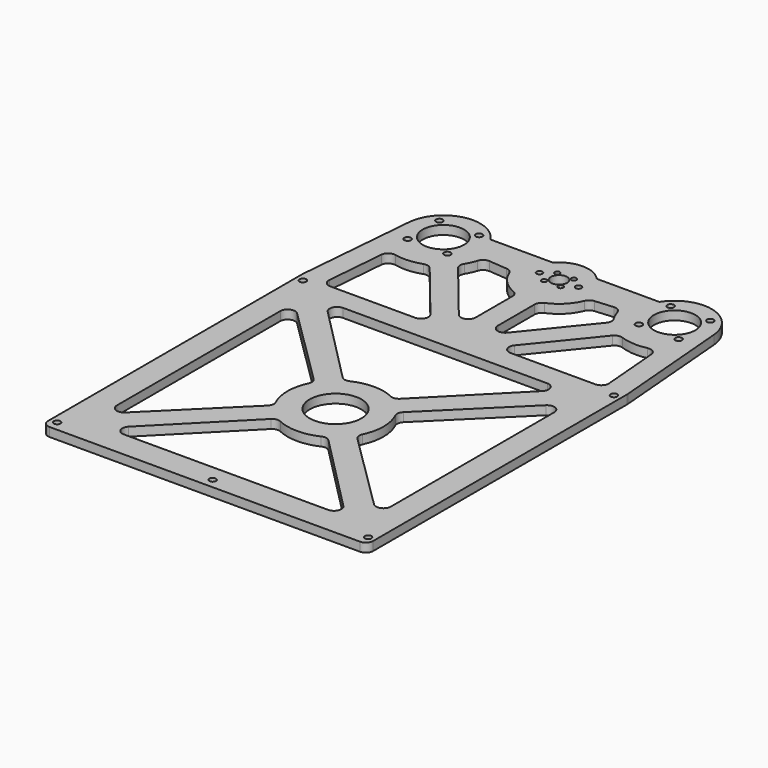
from build123d import *

# Parameters (mm, degrees)
F0_R     = 2.25
F0_R_2   = 17.5
F0_R_3   = 14
F0_R_4   = 1.75
F0_R_5   = 2
F0_R_6   = 5.475
F1_DEPTH = 6


with BuildPart() as f1:
    # F0 (on Top) → F1 (new body)
    with BuildSketch(Plane.XY):
        with BuildLine():
            ThreePointArc((-94.039087, -168.43725), (-92.574621, -171.972784), (-89.039087, -173.43725))
            Line((-89.039087, -173.43725), (120.995737, -173.43725))
            ThreePointArc((120.995737, -173.43725), (124.531271, -171.972784), (125.995737, -168.43725))
            Line((125.995737, -168.43725), (125.995737, 46.355272))
            ThreePointArc((125.995737, 46.355272), (125.98705, 46.77201), (125.961003, 47.188025))
            Line((125.961003, 47.188025), (119.17908, 128.344968))
            ThreePointArc((119.17908, 128.344968), (119.244197, 127.304932), (119.265916, 126.263086))
            ThreePointArc((119.265916, 126.263086), (94.265916, 101.263086), (69.265916, 126.263086))
            ThreePointArc((69.265916, 126.263086), (70.26509, 133.260256), (73.182747, 139.698115))
            Line((73.182747, 139.698115), (30.811448, 139.698115))
            ThreePointArc((30.811448, 139.698115), (15.995916, 146.263086), (1.180383, 139.698115))
            Line((1.180383, 139.698115), (-41.190916, 139.698115))
            ThreePointArc((-41.190916, 139.698115), (-68.259772, 150.535942), (-87.186355, 128.355636))
            Line((-87.186355, 128.355636), (-94.003995, 47.190147))
            ThreePointArc((-94.003995, 47.190147), (-94.03031, 46.772005), (-94.039087, 46.353127))
            Line((-94.039087, 46.353127), (-94.039087, -168.43725))
        make_face()
        with Locations((-89.234084, -166.810914)):
            Circle(F0_R, mode=Mode.SUBTRACT)
        with BuildLine():
            ThreePointArc((-76.734085, 6.31898), (-73.661072, 10.932734), (-68.219396, 9.875237))
            Line((-68.219396, 9.875237), (-14.42265, -43.292696))
            ThreePointArc((-14.42265, -43.292696), (-13.014402, -45.974488), (-13.412905, -48.977214))
            ThreePointArc((-13.412905, -48.977214), (-16.504084, -62.810914), (-13.412905, -76.644614))
            ThreePointArc((-13.412905, -76.644614), (-13.014402, -79.64734), (-14.42265, -82.329132))
            Line((-14.42265, -82.329132), (-68.219396, -135.497065))
            ThreePointArc((-68.219396, -135.497065), (-73.661072, -136.554562), (-76.734085, -131.940809))
            Line((-76.734085, -131.940809), (-76.734085, 6.31898))
        make_face(mode=Mode.SUBTRACT)
        with Locations((15.995916, -166.810914)):
            Circle(F0_R, mode=Mode.SUBTRACT)
        with BuildLine():
            ThreePointArc((29.829615, -92.219735), (32.832342, -91.821231), (35.514134, -93.22948))
            Line((35.514134, -93.22948), (88.682067, -147.026226))
            ThreePointArc((88.682067, -147.026226), (89.739564, -152.467901), (85.12581, -155.540915))
            Line((85.12581, -155.540915), (-53.133979, -155.540915))
            ThreePointArc((-53.133979, -155.540915), (-57.747732, -152.467901), (-56.690236, -147.026226))
            Line((-56.690236, -147.026226), (-3.522302, -93.22948))
            ThreePointArc((-3.522302, -93.22948), (-0.840511, -91.821231), (2.162216, -92.219735))
            ThreePointArc((2.162216, -92.219735), (15.995916, -95.310914), (29.829615, -92.219735))
        make_face(mode=Mode.SUBTRACT)
        with Locations((121.225916, -166.810914)):
            Circle(F0_R, mode=Mode.SUBTRACT)
        with Locations((15.995916, -62.810914)):
            Circle(F0_R_2, mode=Mode.SUBTRACT)
        with BuildLine():
            ThreePointArc((45.404736, -48.977214), (45.006233, -45.974488), (46.414481, -43.292696))
            Line((46.414481, -43.292696), (100.211227, 9.875237))
            ThreePointArc((100.211227, 9.875237), (105.652903, 10.932734), (108.725916, 6.31898))
            Line((108.725916, 6.31898), (108.725916, -131.940809))
            ThreePointArc((108.725916, -131.940809), (105.652903, -136.554562), (100.211227, -135.497065))
            Line((100.211227, -135.497065), (46.414481, -82.329132))
            ThreePointArc((46.414481, -82.329132), (45.006233, -79.64734), (45.404736, -76.644614))
            ThreePointArc((45.404736, -76.644614), (48.495915, -62.810914), (45.404736, -48.977214))
        make_face(mode=Mode.SUBTRACT)
        with Locations((-89.269087, 41.189086)):
            Circle(F0_R, mode=Mode.SUBTRACT)
        with BuildLine():
            Line((-45.802034, 94.092889), (-12.476459, 53.071819))
            ThreePointArc((-12.476459, 53.071819), (-11.842592, 47.770094), (-16.357217, 44.919086))
            Line((-16.357217, 44.919086), (-73.704343, 44.919086))
            ThreePointArc((-73.704343, 44.919086), (-77.384869, 46.534751), (-78.686797, 50.337597))
            Line((-78.686797, 50.337597), (-75.349793, 90.065353))
            ThreePointArc((-75.349793, 90.065353), (-73.332149, 93.672995), (-69.288238, 94.529009))
            ThreePointArc((-69.288238, 94.529009), (-60.245963, 93.826429), (-51.36163, 95.64988))
            ThreePointArc((-51.36163, 95.64988), (-48.334397, 95.754908), (-45.802034, 94.092889))
        make_face(mode=Mode.SUBTRACT)
        with Locations((-75.709113, 112.828057)):
            Circle(F0_R, mode=Mode.SUBTRACT)
        with Locations((-75.709113, 139.698115)):
            Circle(F0_R, mode=Mode.SUBTRACT)
        with Locations((-62.274084, 126.263086)):
            Circle(F0_R_3, mode=Mode.SUBTRACT)
        with Locations((-48.839056, 112.828057)):
            Circle(F0_R, mode=Mode.SUBTRACT)
        with Locations((-48.839056, 139.698115)):
            Circle(F0_R, mode=Mode.SUBTRACT)
        with BuildLine():
            ThreePointArc((8.495916, 65.129641), (5.16867, 60.417753), (-0.384842, 61.976909))
            Line((-0.384842, 61.976909), (-34.159762, 103.551087))
            ThreePointArc((-34.159762, 103.551087), (-35.267861, 106.37018), (-34.545016, 109.311722))
            ThreePointArc((-34.545016, 109.311722), (-32.676411, 112.838194), (-31.254124, 116.567106))
            ThreePointArc((-31.254124, 116.567106), (-29.274099, 119.223089), (-26.068293, 120.058287))
            Line((-26.068293, 120.058287), (-13.708364, 119.032535))
            ThreePointArc((-13.708364, 119.032535), (-11.159348, 118.077485), (-9.488383, 115.928653))
            ThreePointArc((-9.488383, 115.928653), (-3.541995, 106.910565), (5.418993, 100.87847))
            ThreePointArc((5.418993, 100.87847), (7.656167, 99.036587), (8.495916, 96.263086))
            Line((8.495916, 96.263086), (8.495916, 65.129641))
        make_face(mode=Mode.SUBTRACT)
        with Locations((10.399165, 120.666336)):
            Circle(F0_R_4, mode=Mode.SUBTRACT)
        with Locations((2.795916, 126.263086)):
            Circle(F0_R_5, mode=Mode.SUBTRACT)
        with Locations((10.399165, 131.859836)):
            Circle(F0_R_4, mode=Mode.SUBTRACT)
        with BuildLine():
            ThreePointArc((2.162216, -33.402094), (-0.840511, -33.800597), (-3.522302, -32.392349))
            Line((-3.522302, -32.392349), (-56.690236, 21.404398))
            ThreePointArc((-56.690236, 21.404398), (-57.747732, 26.846073), (-53.133979, 29.919086))
            Line((-53.133979, 29.919086), (85.12581, 29.919086))
            ThreePointArc((85.12581, 29.919086), (89.739564, 26.846073), (88.682067, 21.404398))
            Line((88.682067, 21.404398), (35.514134, -32.392349))
            ThreePointArc((35.514134, -32.392349), (32.832342, -33.800597), (29.829615, -33.402094))
            ThreePointArc((29.829615, -33.402094), (15.995916, -30.310915), (2.162216, -33.402094))
        make_face(mode=Mode.SUBTRACT)
        with Locations((121.225916, 41.189086)):
            Circle(F0_R, mode=Mode.SUBTRACT)
        with BuildLine():
            Line((23.495916, 65.129641), (23.495916, 96.263086))
            ThreePointArc((23.495916, 96.263086), (24.335664, 99.036587), (26.572839, 100.87847))
            ThreePointArc((26.572839, 100.87847), (35.533826, 106.910565), (41.480215, 115.928653))
            ThreePointArc((41.480215, 115.928653), (43.151179, 118.077485), (45.700195, 119.032535))
            Line((45.700195, 119.032535), (58.060124, 120.058287))
            ThreePointArc((58.060124, 120.058287), (61.26593, 119.223089), (63.245955, 116.567106))
            ThreePointArc((63.245955, 116.567106), (64.668242, 112.838194), (66.536847, 109.311722))
            ThreePointArc((66.536847, 109.311722), (67.259692, 106.37018), (66.151593, 103.551087))
            Line((66.151593, 103.551087), (32.376673, 61.976909))
            ThreePointArc((32.376673, 61.976909), (26.823161, 60.417753), (23.495916, 65.129641))
        make_face(mode=Mode.SUBTRACT)
        with Locations((21.592666, 120.666336)):
            Circle(F0_R_4, mode=Mode.SUBTRACT)
        with Locations((15.995916, 126.263086)):
            Circle(F0_R_6, mode=Mode.SUBTRACT)
        with BuildLine():
            ThreePointArc((27.195916, 126.263086), (29.195916, 128.263086), (31.195916, 126.263086))
            ThreePointArc((31.195916, 126.263086), (29.195916, 124.263086), (27.195916, 126.263086))
        make_face(mode=Mode.SUBTRACT)
        with Locations((21.592666, 131.859836)):
            Circle(F0_R_4, mode=Mode.SUBTRACT)
        with BuildLine():
            ThreePointArc((48.349048, 44.919086), (43.834424, 47.770094), (44.46829, 53.071819))
            Line((44.46829, 53.071819), (77.793865, 94.092889))
            ThreePointArc((77.793865, 94.092889), (80.326229, 95.754908), (83.353462, 95.64988))
            ThreePointArc((83.353462, 95.64988), (92.237795, 93.826429), (101.280069, 94.529009))
            ThreePointArc((101.280069, 94.529009), (105.32398, 93.672995), (107.341624, 90.065353))
            Line((107.341624, 90.065353), (110.678628, 50.337597))
            ThreePointArc((110.678628, 50.337597), (109.3767, 46.534751), (105.696174, 44.919086))
            Line((105.696174, 44.919086), (48.349048, 44.919086))
        make_face(mode=Mode.SUBTRACT)
        with BuildLine():
            ThreePointArc((119.265916, 126.263086), (119.244197, 127.304932), (119.17908, 128.344968))
            ThreePointArc((119.17908, 128.344968), (100.256801, 150.53466), (73.182747, 139.698115))
            ThreePointArc((73.182747, 139.698115), (70.26509, 133.260256), (69.265916, 126.263086))
            ThreePointArc((69.265916, 126.263086), (94.265916, 101.263086), (119.265916, 126.263086))
        make_face()
        with Locations((80.830887, 112.828057)):
            Circle(F0_R, mode=Mode.SUBTRACT)
        with Locations((94.265916, 126.263086)):
            Circle(F0_R_3, mode=Mode.SUBTRACT)
        with Locations((80.830887, 139.698115)):
            Circle(F0_R, mode=Mode.SUBTRACT)
        with Locations((107.700944, 112.828057)):
            Circle(F0_R, mode=Mode.SUBTRACT)
        with Locations((107.700944, 139.698115)):
            Circle(F0_R, mode=Mode.SUBTRACT)
    extrude(amount=F1_DEPTH)


solid = f1.part
